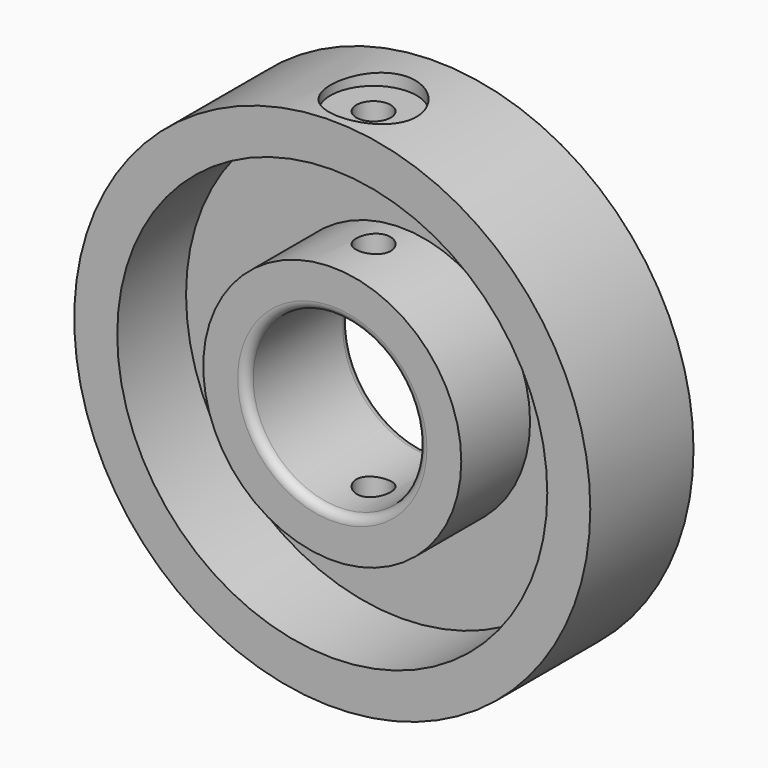
from build123d import *

# Parameters (mm, degrees)
F0_R     = 30
F0_R_2   = 10
F1_DEPTH = 15
F2_R     = 5
F3_DEPTH = 1.5
F4_R     = 25
F4_R_2   = 15
F5_DEPTH = 10
F7_D     = 4
F7_DEPTH = 45
F7_TIP   = 1.2017212381
F8_R     = 1


with BuildPart() as f1:
    # F0 (on Front) → F1 (new body)
    with BuildSketch(Plane.XZ):
        with Locations((0, -30.0189442933)):
            Circle(F0_R)
        with Locations((0, -30.0189442933)):
            Circle(F0_R_2, mode=Mode.SUBTRACT)
    extrude(amount=F1_DEPTH)

    # F2 (on Top) → F3 (cut)
    with BuildSketch(Plane.XY):
        with Locations((0, -9)):
            Circle(F2_R)
    extrude(amount=-F3_DEPTH, mode=Mode.SUBTRACT)

    # F4 (on face) → F5 (cut)
    with BuildSketch(Plane.XZ.offset(15)):
        with Locations((0, -30.0189442933)):
            Circle(F4_R)
        with Locations((0, -30.0189442933)):
            Circle(F4_R_2, mode=Mode.SUBTRACT)
    extrude(amount=-F5_DEPTH, mode=Mode.SUBTRACT)

    # F7
    with Locations(Plane.XY):
        with Locations((0, -9)):
            Hole(F7_D / 2, depth=F7_DEPTH)
            with Locations((0, 0, -(F7_DEPTH + F7_TIP / 2))):  # 118° drill point
                Cone(0, F7_D / 2, F7_TIP, mode=Mode.SUBTRACT)

    # F8
    f8_edges = [f1.edges().sort_by_distance(p)[0] for p in [
        (-10, 0, -30.018944),
        (-10, -15, -30.018944),
    ]]
    fillet(f8_edges, radius=F8_R)


solid = f1.part
